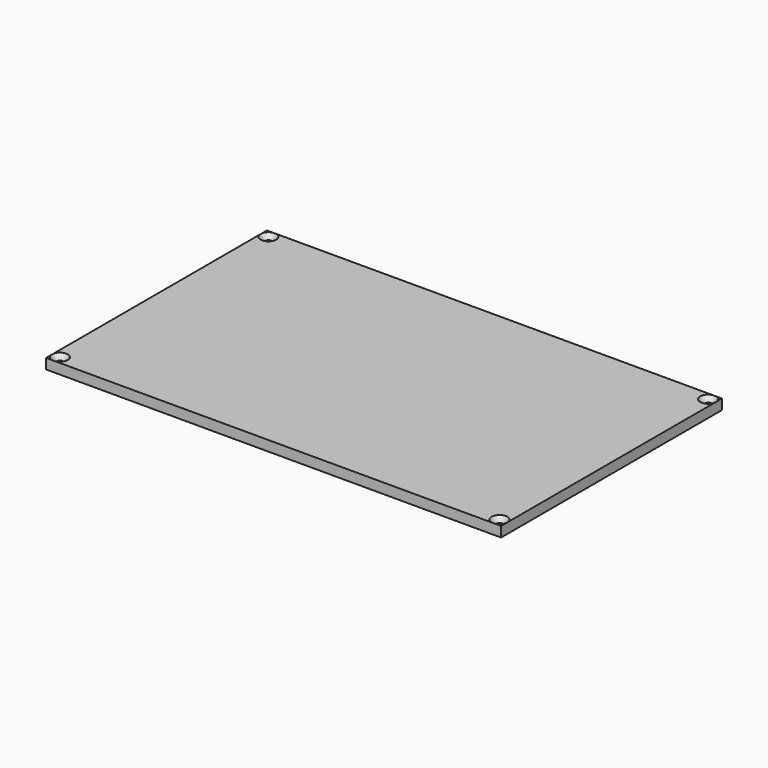
from build123d import *

# Parameters (mm, degrees)
SKETCH_W         = 178
SKETCH_H         = 108
PAD_DEPTH        = 4
HOLE_D           = 2.5
HOLE_DEPTH       = 25
HOLE_CSINK_D     = 6.1
HOLE_CSINK_ANGLE = 90


with BuildPart() as part:
    # Sketch → Pad (new body)
    with BuildSketch(Plane.XY):
        Rectangle(SKETCH_W, SKETCH_H)
    extrude(amount=PAD_DEPTH)

    # Hole
    with Locations(Plane.XY.offset(4)):
        with Locations((-86, 51), (86, 51), (86, -51), (-86, -51)):
            CounterSinkHole(HOLE_D / 2, HOLE_CSINK_D / 2, depth=HOLE_DEPTH, counter_sink_angle=HOLE_CSINK_ANGLE)


solid = part.part
